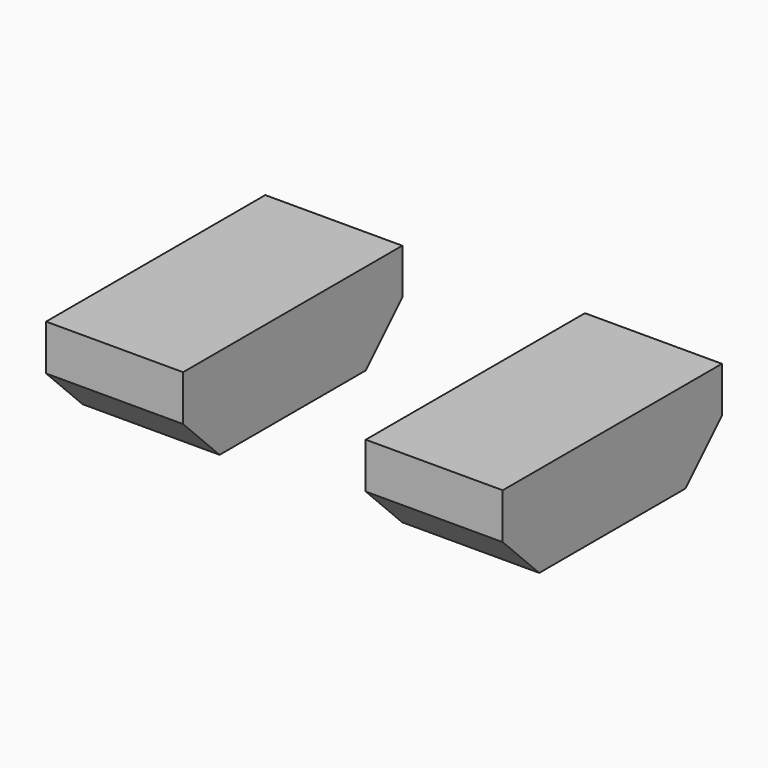
from build123d import *

# Parameters (mm, degrees)
BOX001_W        = 3
BOX001_H        = 6
BOX001_DEPTH    = 2
BOX_W           = 3
BOX_H           = 6
BOX_DEPTH       = 2
CHAMFER003_SIZE = 1


with BuildPart() as cube001:
    # Box001 → Box001 (new body)
    with BuildSketch(Plane(origin=(7, -3, -1), x_dir=(1, 0, 0), z_dir=(0, 0, 1))):
        with Locations((1.5, 3)):
            Rectangle(BOX001_W, BOX001_H)
    extrude(amount=BOX001_DEPTH)


with BuildPart() as chamfer003:
    # Box → Box (new body)
    with BuildSketch(Plane(origin=(0, -3, -1), x_dir=(1, 0, 0), z_dir=(0, 0, 1))):
        with Locations((1.5, 3)):
            Rectangle(BOX_W, BOX_H)
    extrude(amount=BOX_DEPTH)

    # Fusion: union Cube001
    add(cube001.part)

    # Chamfer003
    chamfer003_edges = [chamfer003.edges().sort_by_distance(p)[0] for p in [
        (1.5, -3, -1),
        (1.5, 3, -1),
        (8.5, -3, -1),
        (8.5, 3, -1),
    ]]
    chamfer(chamfer003_edges, length=CHAMFER003_SIZE)


solid = chamfer003.part
